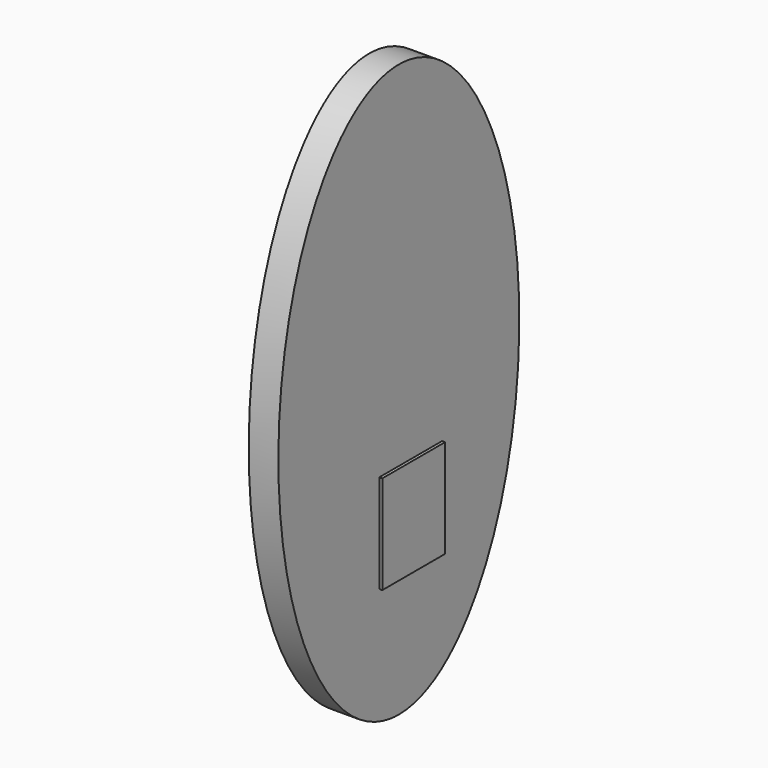
from build123d import *

# Parameters (mm, degrees)
F1_DEPTH = 2.54
F2_W     = 6.714899
F2_H     = 8.428823
F3_DEPTH = 0.254


with BuildPart() as f1:
    # F0 (on Right) → F1 (new body)
    with BuildSketch(Plane.YZ):
        with BuildLine():
            add(Edge.make_bspline(
                [(-45.328245, 28.227501), (-22.985402, 28.227501), (-34.156823, 65.006291), (-45.328245, 101.785082), (-56.499666, 65.006291), (-67.671087, 28.227501), (-45.328245, 28.227501)],
                knots=[0, 0, 0, 2.094395, 2.094395, 4.18879, 4.18879, 6.283185, 6.283185, 6.283185], degree=2, weights=[1, 0.5, 1, 0.5, 1, 0.5, 1]))
        make_face()
    extrude(amount=F1_DEPTH)

    # F2 (on face) → F3 (join)
    with BuildSketch(Plane.YZ.offset(2.54)):
        with Locations((-44.061442, 42.760195)):
            Rectangle(F2_W, F2_H)
    extrude(amount=F3_DEPTH)


solid = f1.part
